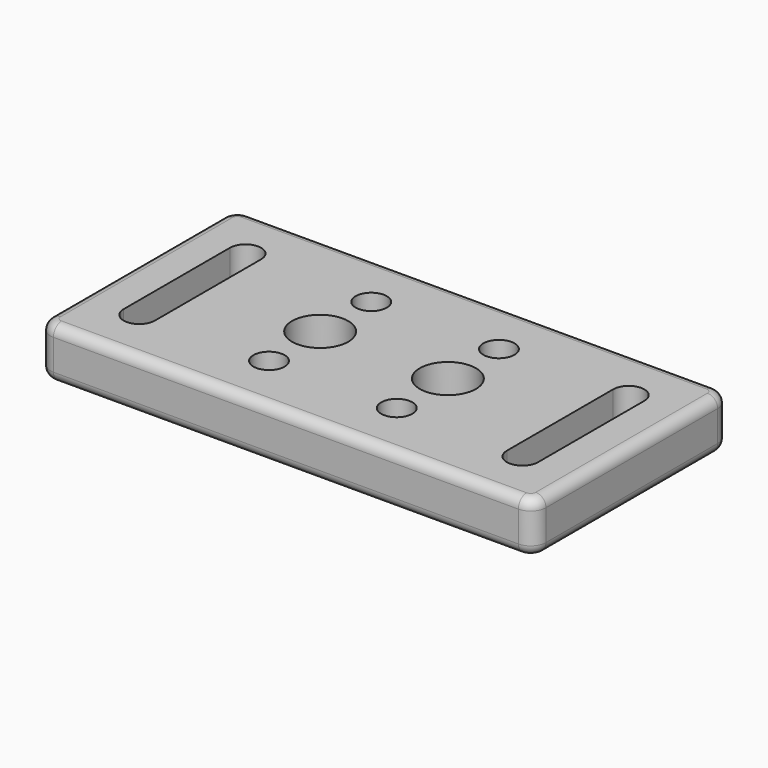
from build123d import *

# Parameters (mm, degrees)
PAD_DEPTH        = 10
SKETCH001_R      = 3.05
POCKET_DEPTH     = 10.001
FILLET_R         = 2
FILLET001_R      = 2
HOLE_D           = 6.6
HOLE_DEPTH       = 25
HOLE_CBORE_D     = 11
HOLE_CBORE_DEPTH = 6.4


with BuildPart() as part:
    # Sketch → Pad (new body)
    with BuildSketch(Plane.XY):
        with BuildLine():
            Line((-45.5, 24), (45.5, 24))
            ThreePointArc((48.5, 21), (47.62132, 23.12132), (45.5, 24))
            Line((48.5, 21), (48.5, -21))
            ThreePointArc((45.5, -24), (47.62132, -23.12132), (48.5, -21))
            Line((45.5, -24), (-45.5, -24))
            ThreePointArc((-48.5, -21), (-47.62132, -23.12132), (-45.5, -24))
            Line((-48.5, -21), (-48.5, 21))
            ThreePointArc((-45.5, 24), (-47.62132, 23.12132), (-48.5, 21))
        make_face()
        with BuildLine():
            ThreePointArc((40.55, 13), (37.5, 16.05), (34.45, 13))
            Line((34.45, 13), (34.45, -13))
            ThreePointArc((34.45, -13), (37.5, -16.05), (40.55, -13))
            Line((40.55, -13), (40.55, 13))
        make_face(mode=Mode.SUBTRACT)
        with BuildLine():
            ThreePointArc((-34.45, 13), (-37.5, 16.05), (-40.55, 13))
            Line((-40.55, 13), (-40.55, -13))
            ThreePointArc((-40.55, -13), (-37.5, -16.05), (-34.45, -13))
            Line((-34.45, -13), (-34.45, 13))
        make_face(mode=Mode.SUBTRACT)
    extrude(amount=PAD_DEPTH)

    # Sketch001 (on Face18 of Pad) → Pocket (cut, through all)
    with BuildSketch(Plane.XY.offset(10)):
        with Locations((-12.5, 12.5)):
            Circle(SKETCH001_R)
        with Locations((12.5, 12.5)):
            Circle(SKETCH001_R)
        with Locations((-12.5, -12.5)):
            Circle(SKETCH001_R)
        with Locations((12.5, -12.5)):
            Circle(SKETCH001_R)
    extrude(amount=-POCKET_DEPTH, mode=Mode.SUBTRACT)

    # Fillet
    fillet_edges = [part.edges().sort_by_distance(p)[0] for p in [
        (0, -24, 10),
    ]]
    fillet(fillet_edges, radius=FILLET_R)

    # Fillet001
    fillet001_edges = [part.edges().sort_by_distance(p)[0] for p in [
        (0, -24, 0),
    ]]
    fillet(fillet001_edges, radius=FILLET001_R)

    # Hole
    with Locations(Plane.XY.offset(10)):
        with Locations((12.5, 0), (-12.5, 0)):
            CounterBoreHole(HOLE_D / 2, HOLE_CBORE_D / 2, HOLE_CBORE_DEPTH, depth=HOLE_DEPTH)


solid = part.part
